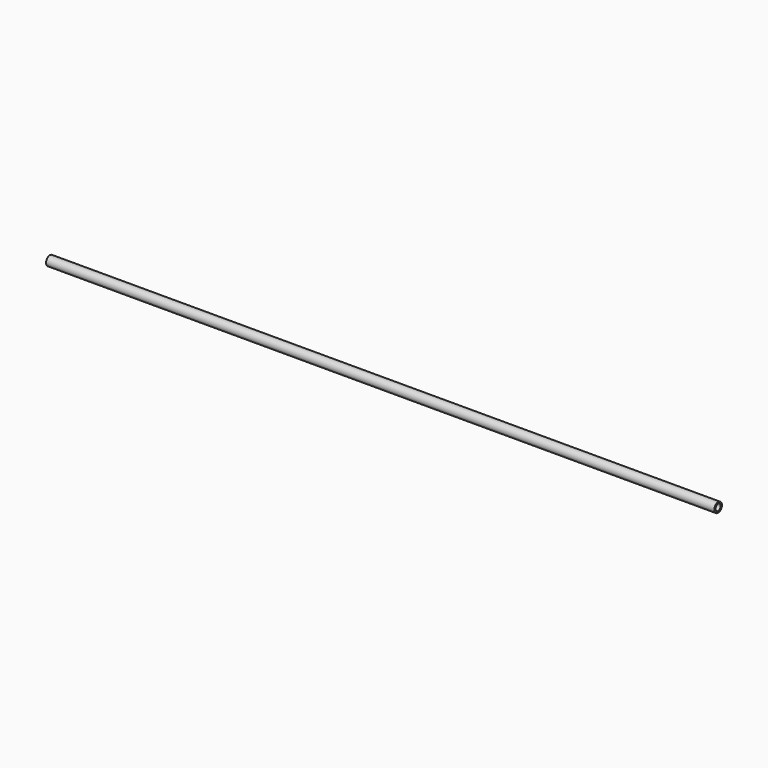
from build123d import *

# Parameters (mm, degrees)
F0_R     = 12.7
F1_DEPTH = 1778
F2_R     = 8.53063
F3_DEPTH = 1778.001


with BuildPart() as f1:
    # F0 (on Right) → F1 (new body)
    with BuildSketch(Plane.YZ):
        Circle(F0_R)
    extrude(amount=F1_DEPTH)

    # F2 (on face) → F3 (cut, through all)
    with BuildSketch(Plane(origin=(0, 0, 0), x_dir=(0, -1, 0), z_dir=(-1, 0, 0))):
        Circle(F2_R)
    extrude(amount=-F3_DEPTH, mode=Mode.SUBTRACT)


solid = f1.part
